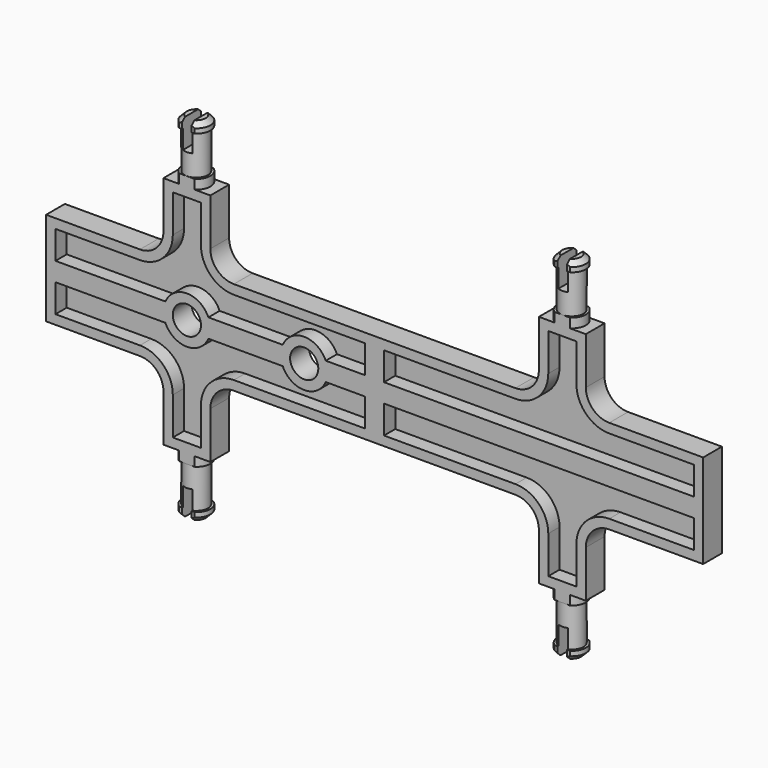
from build123d import *

# Parameters (mm, degrees)
F1_DEPTH  = 2.5
F2_T      = -2
F5_SIZE   = 1
F6_W      = 75
F6_H      = 5
F7_DEPTH  = 37.501
F8_W      = 2
F8_H      = 8
F9_DEPTH  = 6
F12_R     = 5
F13_DEPTH = 5
F15_D     = 6


with BuildPart() as f1:
    # F0 (on Front) → F1 (new body, symmetric)
    with BuildSketch(Plane.XZ):
        with BuildLine():
            Line((0, 10), (0, 0))
            Line((0, 0), (70, 0))
            Line((70, 0), (70, 10))
            Line((70, 10), (50, 10))
            ThreePointArc((50, 10), (46.4644660941, 11.4644660941), (45, 15))
            Line((45, 15), (45, 25))
            Line((45, 25), (35, 25))
            Line((35, 25), (35, 15))
            ThreePointArc((35, 15), (33.5355339059, 11.4644660941), (30, 10))
            Line((30, 10), (0, 10))
        make_face()
    extrude(amount=F1_DEPTH, both=True)

    # F2
    f2_openings = [f1.faces().sort_by_distance(p)[0] for p in [
        (35.933685, -2.5, 7.254637),
    ]]
    offset(amount=F2_T, openings=f2_openings)

    # F3 (on Front) → F4 (revolve)
    with BuildSketch(Plane.XZ):
        Polygon((37, 25), (40, 25), (40, 37.5), (37, 37.5), (37, 35.5), (37.5, 35.5), (37.5, 27), (37, 27), align=None)
    revolve(axis=Axis((40, 0, 31.25), (0, 0, 1)))

    # F5
    f5_edges = [f1.edges().sort_by_distance(p)[0] for p in [
        (43, 0, 37.5),
    ]]
    chamfer(f5_edges, length=F5_SIZE)

    # F6 (on face) → F7 (intersect, through all)
    with BuildSketch(Plane.XY.offset(37.5)):
        with Locations((35, 0)):
            Rectangle(F6_W, F6_H)
    extrude(amount=-F7_DEPTH, mode=Mode.INTERSECT)

    # F8 (on face) → F9 (cut)
    with BuildSketch(Plane.XY.offset(37.5)):
        with Locations((40, 0)):
            Rectangle(F8_W, F8_H)
    extrude(amount=-F9_DEPTH, mode=Mode.SUBTRACT)

    # F10: F1 across plane


with BuildPart() as f1_1:
    add(f1.part)
    add(f1.part.mirror(Plane.YZ))

    # F11: F1 across plane


with BuildPart() as f1_2:
    add(f1_1.part)
    add(f1_1.part.mirror(Plane.XY))

    # F12 (on face) → F13 (join, through all)
    with BuildSketch(Plane.XZ.offset(2.5)):
        with Locations((-40, 0)):
            Circle(F12_R)
        with Locations((-15, 0)):
            Circle(F12_R)
    extrude(amount=-F13_DEPTH)

    # F15 (through all)
    with Locations(Plane.XZ.offset(2.5)):
        with Locations((-40, 0), (-15, 0)):
            Hole(F15_D / 2)


solid = f1_2.part
